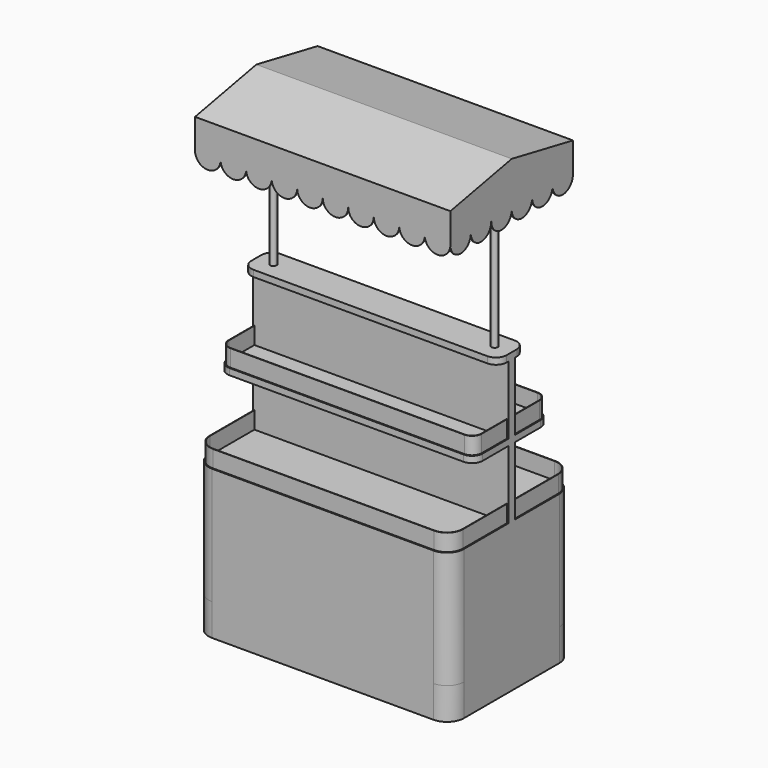
from build123d import *

# Parameters (mm, degrees)
F2_W      = 1100
F2_H      = 620
F3_DEPTH  = 150
F4_W      = 1200
F4_H      = 720
F5_DEPTH  = 550
F6_W      = 1200
F6_H      = 40
F7_DEPTH  = 700
F9_W      = 1200
F9_H      = 440
F10_DEPTH = 30
F11_W     = 1200
F11_H     = 160
F12_DEPTH = 30
F13_R     = 80
F14_R     = 85
F15_R     = 50
F16_R     = 50
F18_DEPTH = 80
F20_DEPTH = 80
F23_DEPTH = 1200
F25_DEPTH = 5
F27_DEPTH = 5
F29_DEPTH = 5
F31_DEPTH = 5
F32_R     = 15
F33_DEPTH = 794.9063180602
F35_DEPTH = 150


with BuildPart() as f3:
    # F2 (on Top) → F3 (new body, through all)
    with BuildSketch(Plane.XY):
        Rectangle(F2_W, F2_H)
    extrude(amount=F3_DEPTH)

    # F4 (on face) → F5 (join, through all)
    with BuildSketch(Plane.XY.offset(150)):
        Rectangle(F4_W, F4_H)
    extrude(amount=F5_DEPTH)

    # F6 (on face) → F7 (join, through all)
    with BuildSketch(Plane.XY.offset(700)):
        Rectangle(F6_W, F6_H)
    extrude(amount=F7_DEPTH)

    # F9 (on plane+point) → F10 (join, through all)
    with BuildSketch(Plane.XY.offset(1020)):
        Rectangle(F9_W, F9_H)
    extrude(amount=F10_DEPTH)

    # F11 (on face) → F12 (join, through all)
    with BuildSketch(Plane.XY.offset(1400)):
        Rectangle(F11_W, F11_H)
    extrude(amount=-F12_DEPTH)

    # F13
    f13_edges = [f3.edges().sort_by_distance(p)[0] for p in [
        (600, -360, 425),
        (-600, -360, 425),
        (600, 360, 425),
        (-600, 360, 425),
    ]]
    fillet(f13_edges, radius=F13_R)

    # F14
    f14_edges = [f3.edges().sort_by_distance(p)[0] for p in [
        (-550, 310, 75),
        (-550, -310, 75),
        (550, -310, 75),
        (550, 310, 75),
    ]]
    fillet(f14_edges, radius=F14_R)

    # F15
    f15_edges = [f3.edges().sort_by_distance(p)[0] for p in [
        (600, 220, 1035),
        (-600, 220, 1035),
        (-600, -220, 1035),
        (600, -220, 1035),
    ]]
    fillet(f15_edges, radius=F15_R)

    # F16
    f16_edges = [f3.edges().sort_by_distance(p)[0] for p in [
        (600, -80, 1385),
        (600, 80, 1385),
        (-600, -80, 1385),
        (-600, 80, 1385),
    ]]
    fillet(f16_edges, radius=F16_R)

    # F17 (on face) → F18 (join)
    with BuildSketch(Plane.XY.offset(700)):
        with BuildLine():
            ThreePointArc((-520, 355), (-573.033008589, 333.033008589), (-595, 280))
            Line((-595, 280), (-595, -280))
            ThreePointArc((-595, -280), (-573.033008589, -333.033008589), (-520, -355))
            Line((-520, -355), (520, -355))
            ThreePointArc((520, -355), (573.033008589, -333.033008589), (595, -280))
            Line((595, -280), (595, 280))
            ThreePointArc((595, 280), (573.033008589, 333.033008589), (520, 355))
            Line((520, 355), (-520, 355))
        make_face()
        with BuildLine():
            ThreePointArc((593, -280), (571.6187950266, -331.6187950266), (520, -353))
            Line((520, -353), (-520, -353))
            ThreePointArc((-520, -353), (-571.6187950266, -331.6187950266), (-593, -280))
            Line((-593, -280), (-593, 280))
            ThreePointArc((-593, 280), (-571.6187950266, 331.6187950266), (-520, 353))
            Line((-520, 353), (520, 353))
            ThreePointArc((520, 353), (571.6187950266, 331.6187950266), (593, 280))
            Line((593, 280), (593, -280))
        make_face(mode=Mode.SUBTRACT)
    extrude(amount=F18_DEPTH)

    # F19 (on face) → F20 (join)
    with BuildSketch(Plane.XY.offset(1050)):
        with BuildLine():
            ThreePointArc((-550, 215), (-581.8198051534, 201.8198051534), (-595, 170))
            Line((-595, 170), (-595, 15))
            Line((-595, 15), (-595, -15))
            Line((-595, -15), (-595, -170))
            ThreePointArc((-595, -170), (-581.8198051534, -201.8198051534), (-550, -215))
            Line((-550, -215), (550, -215))
            ThreePointArc((550, -215), (581.8198051534, -201.8198051534), (595, -170))
            Line((595, -170), (595, -15))
            Line((595, -15), (595, 15))
            Line((595, 15), (595, 170))
            ThreePointArc((595, 170), (581.8198051534, 201.8198051534), (550, 215))
            Line((550, 215), (-550, 215))
        make_face()
        with BuildLine():
            Line((593, 170), (593, 15))
            Line((593, 15), (593, -15))
            Line((593, -15), (593, -170))
            ThreePointArc((593, -170), (580.405591591, -200.405591591), (550, -213))
            Line((550, -213), (-550, -213))
            ThreePointArc((-550, -213), (-580.405591591, -200.405591591), (-593, -170))
            Line((-593, -170), (-593, -15))
            Line((-593, -15), (-593, 15))
            Line((-593, 15), (-593, 170))
            ThreePointArc((-593, 170), (-580.405591591, 200.405591591), (-550, 213))
            Line((-550, 213), (550, 213))
            ThreePointArc((550, 213), (580.405591591, 200.405591591), (593, 170))
        make_face(mode=Mode.SUBTRACT)
    extrude(amount=F20_DEPTH)



with BuildPart() as f23:
    # F22 (on face) → F23 (new body, through all)
    with BuildSketch(Plane.YZ.offset(600)):
        Polygon((360, 2130), (0, 2200), (-360, 2130), (-359.2919978771, 2125.0439851397), (0, 2194.9063180602), (359.2919978771, 2125.0439851397), align=None)
    extrude(amount=-F23_DEPTH)

    # F24 (on face) → F25 (join)
    with BuildSketch(Plane.XZ.offset(360)):
        with BuildLine():
            Line((600, 2130), (-600, 2130))
            Line((-600, 2130), (-600, 1990))
            ThreePointArc((-600, 1990), (-540, 1930), (-480, 1990))
            ThreePointArc((-480, 1990), (-420, 1930), (-360, 1990))
            ThreePointArc((-360, 1990), (-300, 1930), (-240, 1990))
            ThreePointArc((-240, 1990), (-180, 1930), (-120, 1990))
            ThreePointArc((-120, 1990), (-60, 1930), (0, 1990))
            ThreePointArc((0, 1990), (60, 1930), (120, 1990))
            ThreePointArc((120, 1990), (180, 1930), (240, 1990))
            ThreePointArc((240, 1990), (300, 1930), (360, 1990))
            ThreePointArc((360, 1990), (420, 1930), (480, 1990))
            ThreePointArc((480, 1990), (540, 1930), (600, 1990))
            Line((600, 1990), (600, 2130))
        make_face()
    extrude(amount=-F25_DEPTH)

    # F26 (on face) → F27 (join)
    with BuildSketch(Plane(origin=(0, 360, 0), x_dir=(-1, 0, 0), z_dir=(0, 1, 0))):
        with BuildLine():
            Line((600, 1990), (600, 2130))
            Line((600, 2130), (-600, 2130))
            Line((-600, 2130), (-600, 1990))
            ThreePointArc((-600, 1990), (-540, 1930), (-480, 1990))
            ThreePointArc((-480, 1990), (-420, 1930), (-360, 1990))
            ThreePointArc((-360, 1990), (-300, 1930), (-240, 1990))
            ThreePointArc((-240, 1990), (-180, 1930), (-120, 1990))
            ThreePointArc((-120, 1990), (-60, 1930), (0, 1990))
            ThreePointArc((0, 1990), (60, 1930), (120, 1990))
            ThreePointArc((120, 1990), (180, 1930), (240, 1990))
            ThreePointArc((240, 1990), (300, 1930), (360, 1990))
            ThreePointArc((360, 1990), (420, 1930), (480, 1990))
            ThreePointArc((480, 1990), (540, 1930), (600, 1990))
        make_face()
    extrude(amount=-F27_DEPTH)

    # F28 (on face) → F29 (join)
    with BuildSketch(Plane.YZ.offset(600)):
        with BuildLine():
            Line((360, 2130), (0, 2200))
            Line((0, 2200), (-360, 2130))
            Line((-360, 2130), (-360, 1990))
            ThreePointArc((-360, 1990), (-300, 1930), (-240, 1990))
            ThreePointArc((-240, 1990), (-180, 1930), (-120, 1990))
            ThreePointArc((-120, 1990), (-60, 1930), (0, 1990))
            ThreePointArc((0, 1990), (60, 1930), (120, 1990))
            ThreePointArc((120, 1990), (180, 1930), (240, 1990))
            ThreePointArc((240, 1990), (300, 1930), (360, 1990))
            Line((360, 1990), (360, 2130))
        make_face()
    extrude(amount=-F29_DEPTH)

    # F30 (on face) → F31 (join)
    with BuildSketch(Plane(origin=(-600, 0, 0), x_dir=(0, -1, 0), z_dir=(-1, 0, 0))):
        with BuildLine():
            Line((-360, 2130), (-360, 1990))
            ThreePointArc((-360, 1990), (-300, 1930), (-240, 1990))
            ThreePointArc((-240, 1990), (-180, 1930), (-120, 1990))
            ThreePointArc((-120, 1990), (-60, 1930), (0, 1990))
            ThreePointArc((0, 1990), (60, 1930), (120, 1990))
            ThreePointArc((120, 1990), (180, 1930), (240, 1990))
            ThreePointArc((240, 1990), (300, 1930), (360, 1990))
            Line((360, 1990), (360, 2130))
            Line((360, 2130), (0, 2200))
            Line((0, 2200), (-360, 2130))
        make_face()
    extrude(amount=-F31_DEPTH)


with BuildPart() as f3_1:
    add(f3.part)

    add(f23.part)  # F33 merges F23
    # F32 (on face) → F33 (join, through all)
    with BuildSketch(Plane.XY.offset(1400)):
        with Locations((-520, 0)):
            Circle(F32_R)
        with Locations((520, 0)):
            Circle(F32_R)
    extrude(amount=F33_DEPTH)

    # F34 (on face) → F35 (join, through all)
    with BuildSketch(Plane(origin=(0, 0, 150), x_dir=(1, 0, 0), z_dir=(0, 0, -1))):
        with BuildLine():
            Line((520, 360), (-520, 360))
            ThreePointArc((-520, 360), (-576.5685424949, 336.5685424949), (-600, 280))
            Line((-600, 280), (-600, -280))
            ThreePointArc((-600, -280), (-576.5685424949, -336.5685424949), (-520, -360))
            Line((-520, -360), (520, -360))
            ThreePointArc((520, -360), (576.5685424949, -336.5685424949), (600, -280))
            Line((600, -280), (600, 280))
            ThreePointArc((600, 280), (576.5685424949, 336.5685424949), (520, 360))
        make_face()
    extrude(amount=F35_DEPTH)


solid = f3_1.part
